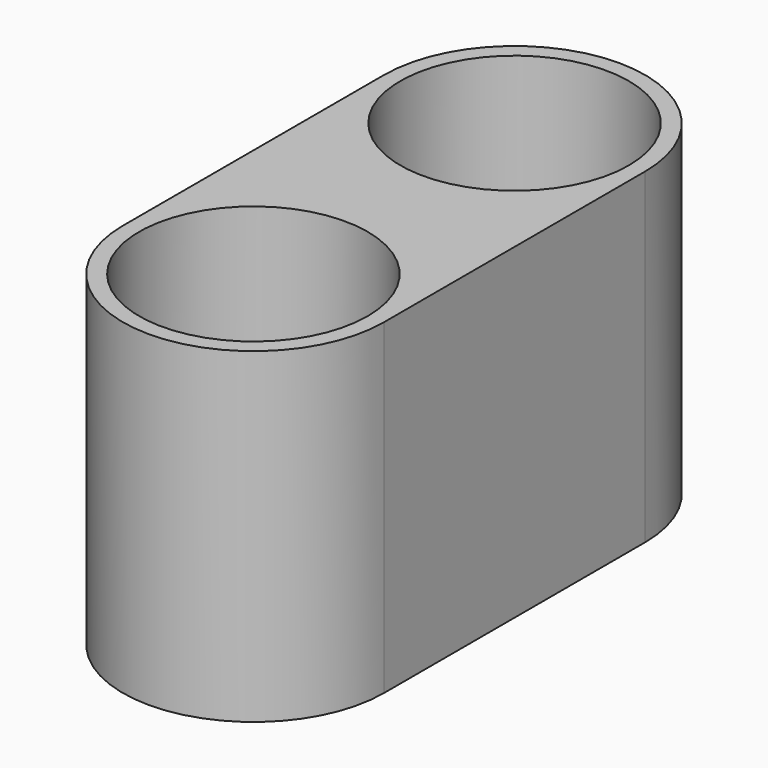
from build123d import *

# Parameters (mm, degrees)
SKETCH010_R  = 3.5
PAD001_DEPTH = 10


with BuildPart() as part:
    # Sketch010 → Pad001 (new body)
    with BuildSketch(Plane.XY):
        with BuildLine():
            ThreePointArc((-118.917125, 25.789802), (-122.917125, 29.789802), (-126.917125, 25.789802))
            Line((-126.917125, 25.789802), (-126.917125, 15.789802))
            ThreePointArc((-126.917125, 15.789802), (-122.917125, 11.789802), (-118.917125, 15.789802))
            Line((-118.917125, 25.789802), (-118.917125, 15.789802))
        make_face()
        with Locations((-122.917125, 25.789802)):
            Circle(SKETCH010_R, mode=Mode.SUBTRACT)
        with Locations((-122.917125, 15.789802)):
            Circle(SKETCH010_R, mode=Mode.SUBTRACT)
    extrude(amount=PAD001_DEPTH)


solid = part.part
